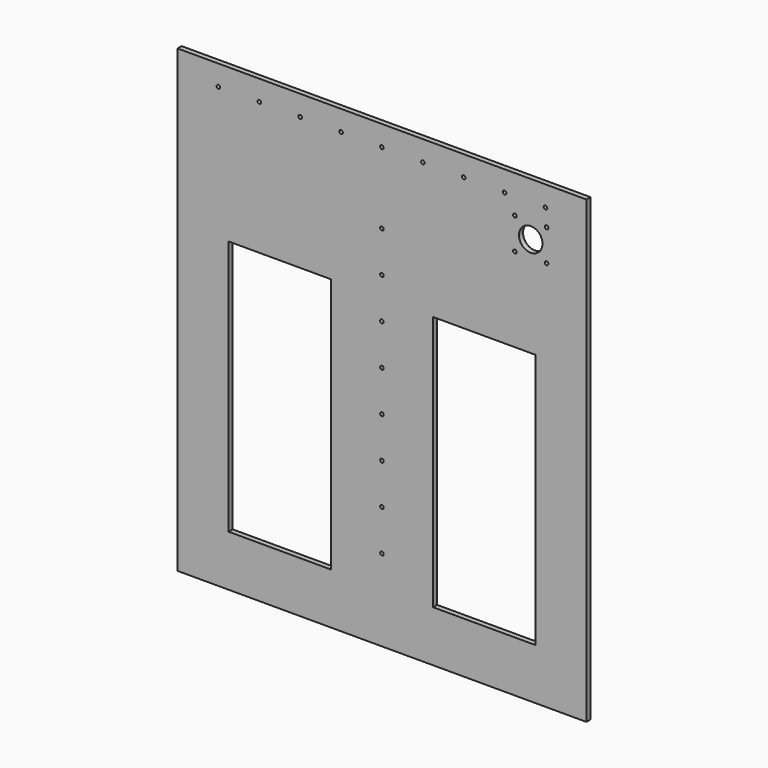
from build123d import *

# Parameters (mm, degrees)
F0_W     = 400
F0_H     = 450
F0_W_2   = 100
F0_H_2   = 250
F0_R     = 1.75
F0_R_2   = 11.5
F1_DEPTH = 5


with BuildPart() as f1:
    # F0 (on Front) → F1 (new body)
    with BuildSketch(Plane.XZ):
        with Locations((200, 225)):
            Rectangle(F0_W, F0_H)
        with Locations((100, 175)):
            Rectangle(F0_W_2, F0_H_2, mode=Mode.SUBTRACT)
        with Locations((200, 80)):
            Circle(F0_R, mode=Mode.SUBTRACT)
        with Locations((200, 120)):
            Circle(F0_R, mode=Mode.SUBTRACT)
        with Locations((200, 160)):
            Circle(F0_R, mode=Mode.SUBTRACT)
        with Locations((200, 200)):
            Circle(F0_R, mode=Mode.SUBTRACT)
        with Locations((300, 175)):
            Rectangle(F0_W_2, F0_H_2, mode=Mode.SUBTRACT)
        with Locations((40, 430)):
            Circle(F0_R, mode=Mode.SUBTRACT)
        with Locations((80, 430)):
            Circle(F0_R, mode=Mode.SUBTRACT)
        with Locations((120, 430)):
            Circle(F0_R, mode=Mode.SUBTRACT)
        with Locations((160, 430)):
            Circle(F0_R, mode=Mode.SUBTRACT)
        with Locations((200, 240)):
            Circle(F0_R, mode=Mode.SUBTRACT)
        with Locations((200, 280)):
            Circle(F0_R, mode=Mode.SUBTRACT)
        with Locations((200, 320)):
            Circle(F0_R, mode=Mode.SUBTRACT)
        with Locations((200, 360)):
            Circle(F0_R, mode=Mode.SUBTRACT)
        with Locations((200, 430)):
            Circle(F0_R, mode=Mode.SUBTRACT)
        with Locations((240, 430)):
            Circle(F0_R, mode=Mode.SUBTRACT)
        with Locations((280, 430)):
            Circle(F0_R, mode=Mode.SUBTRACT)
        with Locations((330.058196, 382.366526)):
            Circle(F0_R, mode=Mode.SUBTRACT)
        with Locations((361.058196, 382.366526)):
            Circle(F0_R, mode=Mode.SUBTRACT)
        with Locations((345.558196, 397.866526)):
            Circle(F0_R_2, mode=Mode.SUBTRACT)
        with Locations((330.058196, 413.366526)):
            Circle(F0_R, mode=Mode.SUBTRACT)
        with Locations((320, 430)):
            Circle(F0_R, mode=Mode.SUBTRACT)
        with Locations((361.058196, 413.366526)):
            Circle(F0_R, mode=Mode.SUBTRACT)
        with Locations((360, 430)):
            Circle(F0_R, mode=Mode.SUBTRACT)
    extrude(amount=F1_DEPTH)


solid = f1.part
